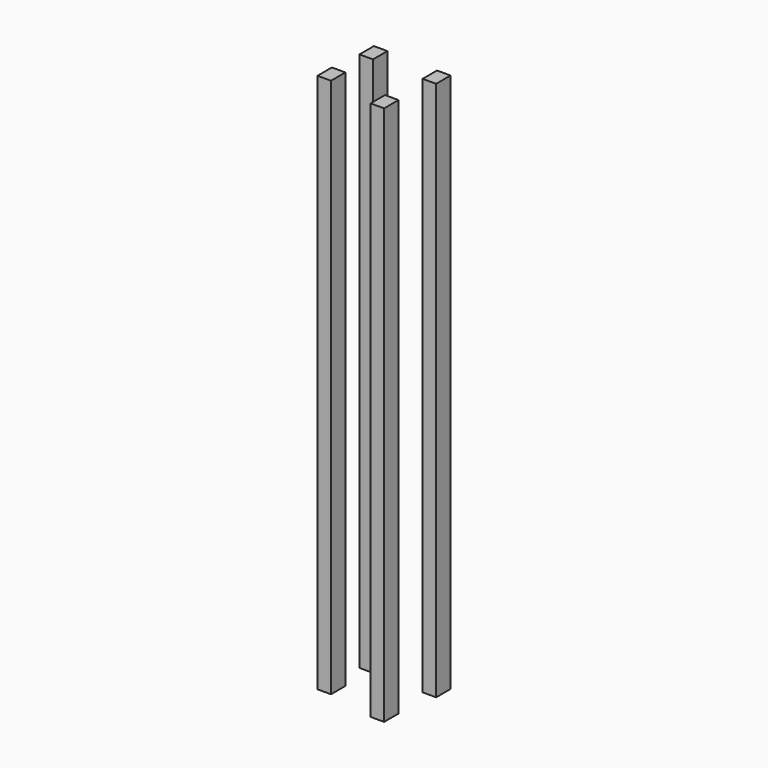
from build123d import *

# Parameters (mm, degrees)
F0_W     = 19.05
F0_H     = 25.4
F1_DEPTH = 762
F2_W     = 19.05
F2_H     = 25.4
F3_DEPTH = 762


with BuildPart() as f1:
    # F0 (on Top) → F1 (new body)
    with BuildSketch(Plane.XY):
        with Locations((-52.709239, -18.14632)):
            Rectangle(F0_W, F0_H)
    extrude(amount=F1_DEPTH)


with BuildPart() as f3:
    # F2 (on Top) → F3 (new body)
    with BuildSketch(Plane.XY):
        with Locations((-48.387001, 50.543358)):
            Rectangle(F2_W, F2_H)
        with Locations((42.290998, 48.511357)):
            Rectangle(F2_W, F2_H)
        with Locations((34.163003, -33.022645)):
            Rectangle(F2_W, F2_H)
    extrude(amount=F3_DEPTH)


solid = Compound([f1.part, f3.part])
